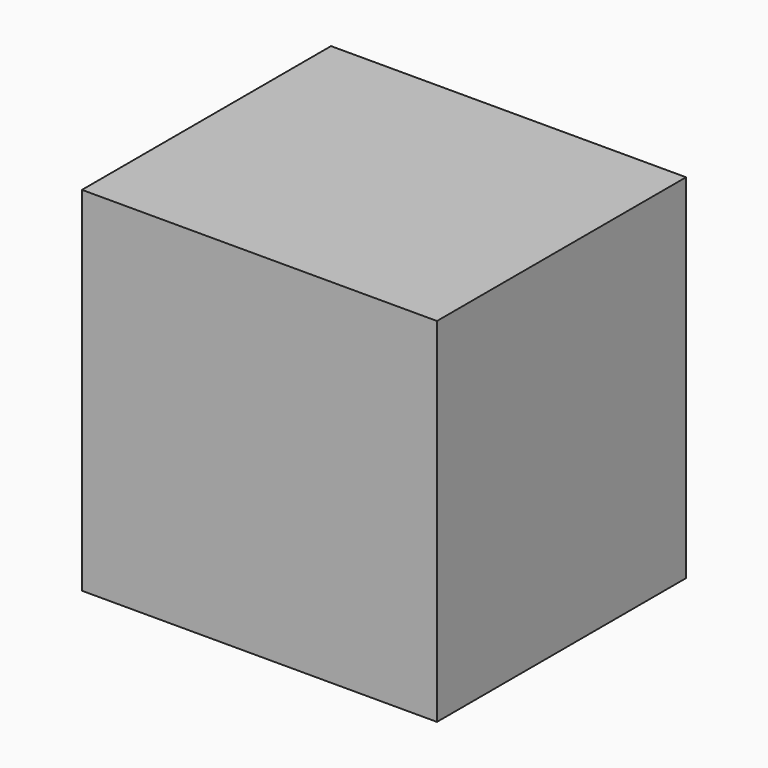
from build123d import *

# Parameters (mm, degrees)
F0_W     = 57.0184
F0_H     = 56.68503
F1_DEPTH = 50


with BuildPart() as f1:
    # F0 (on Front) → F1 (new body)
    with BuildSketch(Plane.XZ):
        Rectangle(F0_W, F0_H)
        Rectangle(F0_W, F0_H)
    extrude(amount=F1_DEPTH)


solid = f1.part
